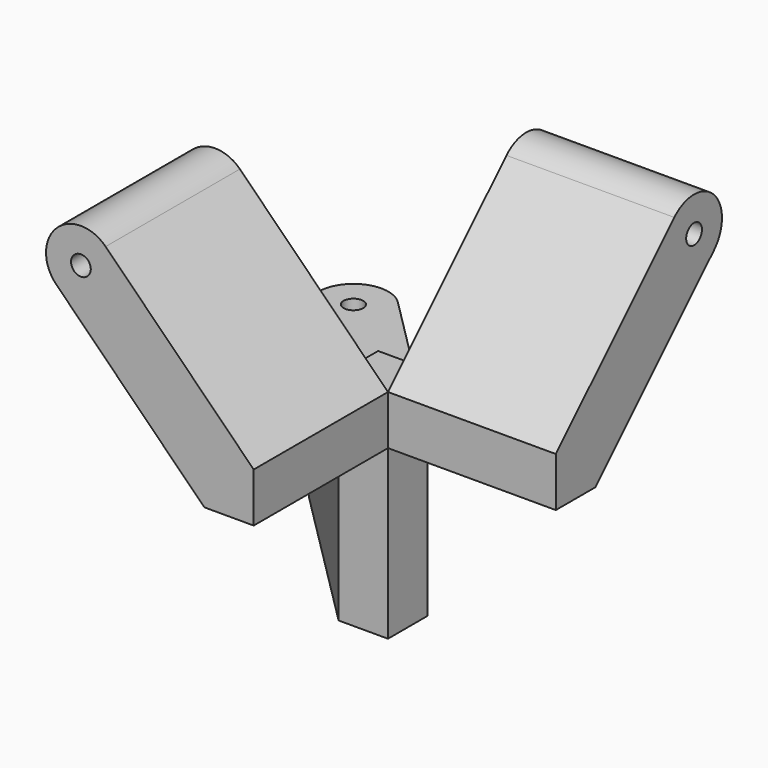
from build123d import *

# Parameters (mm, degrees)
F0_R     = 1
F1_DEPTH = 17
F2_W     = 5
F2_H     = 5
F3_DEPTH = 5
F4_R     = 1
F5_DEPTH = 17
F6_R     = 1
F7_DEPTH = 17


with BuildPart() as f1:
    # F0 (on Front) → F1 (new body)
    with BuildSketch(Plane.XZ):
        with BuildLine():
            Line((-5, 0), (0, 0))
            Line((0, 0), (0, 5))
            Line((0, 5), (-15, 20))
            ThreePointArc((-15, 20), (-20, 20), (-20, 15))
            Line((-20, 15), (-5, 0))
        make_face()
        with Locations((-17.5, 17.5)):
            Circle(F0_R, mode=Mode.SUBTRACT)
    extrude(amount=F1_DEPTH)

    # F2 (on face) → F3 (join)
    with BuildSketch(Plane(origin=(0, 0, 0), x_dir=(-1, 0, 0), z_dir=(0, 1, 0))):
        with Locations((2.5, 2.5)):
            Rectangle(F2_W, F2_H)
    extrude(amount=F3_DEPTH)

    # F4 (on face) → F5 (join)
    with BuildSketch(Plane.YZ):
        with BuildLine():
            Line((0, 5), (0, 0))
            Line((0, 0), (5, 0))
            Line((5, 0), (20, 15))
            ThreePointArc((20, 15), (20, 20), (15, 20))
            Line((15, 20), (0, 5))
        make_face()
        with Locations((17.5, 17.5)):
            Circle(F4_R, mode=Mode.SUBTRACT)
    extrude(amount=F5_DEPTH)

    # F6 (on face) → F7 (join)
    with BuildSketch(Plane(origin=(0, 0, 0), x_dir=(1, 0, 0), z_dir=(0, 0, -1))):
        with BuildLine():
            Line((0, -5), (0, 0))
            Line((0, 0), (-5, 0))
            Line((-5, 0), (-20, -15))
            ThreePointArc((-20, -15), (-20, -20), (-15, -20))
            Line((-15, -20), (0, -5))
        make_face()
        with Locations((-17.5, -17.5)):
            Circle(F6_R, mode=Mode.SUBTRACT)
    extrude(amount=F7_DEPTH)


solid = f1.part
